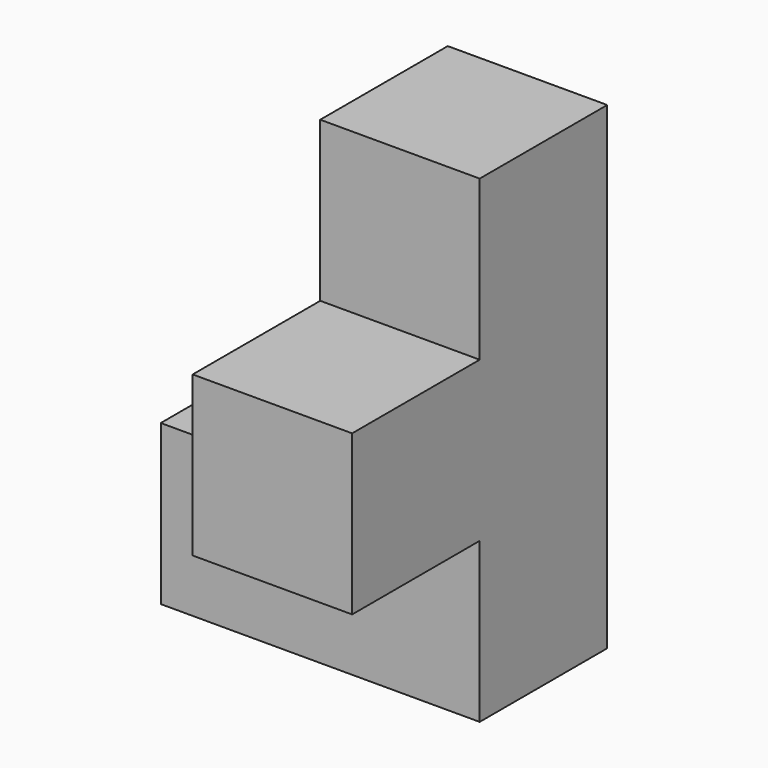
from build123d import *

# Parameters (mm, degrees)
F0_W     = 18.9951788634
F0_H     = 18.9951807261
F1_DEPTH = 37.9984
F0_W_2   = 18.9951807261
F2_DEPTH = 18.9992


with BuildPart() as f1:
    # F0 (on Right) → F1 (new body)
    with BuildSketch(Plane.YZ):
        with Locations((9.4975894317, -28.4927710891)):
            Rectangle(F0_W, F0_H)
    extrude(amount=-F1_DEPTH)

    # F0 (on Right) → F2 (join)
    with BuildSketch(Plane.YZ):
        with Locations((-9.497590363, -9.497590363)):
            Rectangle(F0_W_2, F0_H)
        with Locations((9.4975894317, -9.497590363)):
            Rectangle(F0_W, F0_H)
        with Locations((9.4975894317, 9.497590363)):
            Rectangle(F0_W, F0_H)
        with Locations((9.4975894317, -28.4927710891)):
            Rectangle(F0_W, F0_H)
    extrude(amount=-F2_DEPTH)


solid = f1.part
